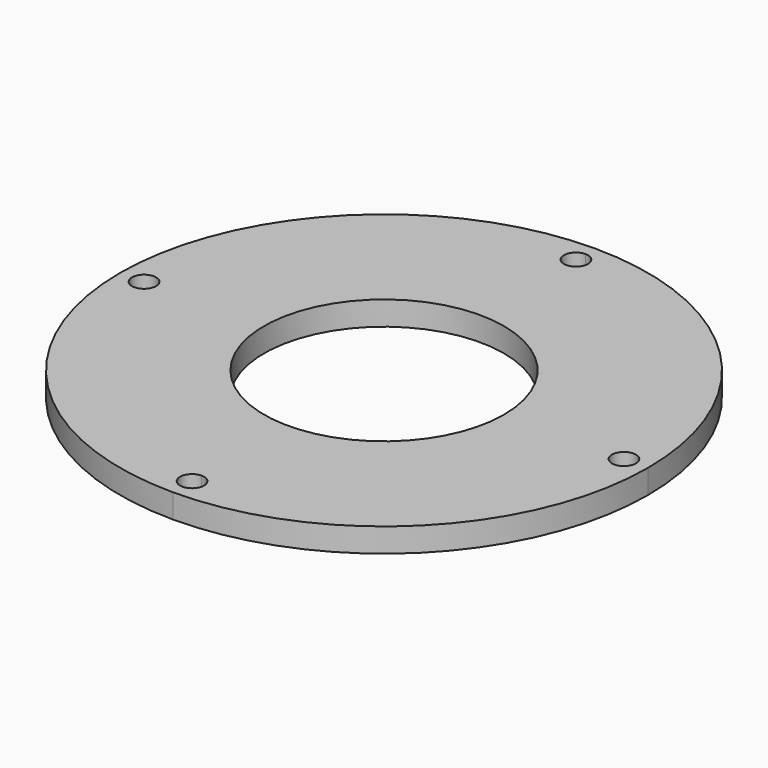
from build123d import *

# Parameters (mm, degrees)
F1_DEPTH = 3.175
F2_R     = 15.875
F3_DEPTH = 25.4


with BuildPart() as f1:
    # F0 (on Top) → F1 (new body)
    with BuildSketch(Plane.XY):
        with BuildLine():
            ThreePointArc((0, -34.925), (24.695704, -24.695704), (34.925, 0))
            ThreePointArc((34.925, 0), (24.695704, 24.695704), (0, 34.925))
            ThreePointArc((0, 34.925), (-24.695704, 24.695704), (-34.925, 0))
            ThreePointArc((-34.925, 0), (-24.695704, -24.695704), (0, -34.925))
        make_face()
        with BuildLine():
            ThreePointArc((1.5875, -31.75), (1.122532, -32.872532), (0, -33.3375))
            ThreePointArc((0, -33.3375), (-1.5875, -31.75), (0, -30.1625))
            ThreePointArc((0, -30.1625), (1.122532, -30.627468), (1.5875, -31.75))
        make_face(mode=Mode.SUBTRACT)
        with BuildLine():
            ThreePointArc((-30.1625, 0), (-31.75, -1.5875), (-33.3375, 0))
            ThreePointArc((-33.3375, 0), (-31.75, 1.5875), (-30.1625, 0))
        make_face(mode=Mode.SUBTRACT)
        with BuildLine():
            ThreePointArc((30.1625, 0), (31.75, 1.5875), (33.3375, 0))
            ThreePointArc((33.3375, 0), (31.75, -1.5875), (30.1625, 0))
        make_face(mode=Mode.SUBTRACT)
        with BuildLine():
            ThreePointArc((0, 30.1625), (-1.5875, 31.75), (0, 33.3375))
            ThreePointArc((0, 33.3375), (1.122532, 32.872532), (1.5875, 31.75))
            ThreePointArc((1.5875, 31.75), (1.122532, 30.627468), (0, 30.1625))
        make_face(mode=Mode.SUBTRACT)
    extrude(amount=F1_DEPTH)

    # F2 (on face) → F3 (cut)
    with BuildSketch(Plane.XY.offset(3.175)):
        Circle(F2_R)
    extrude(amount=-F3_DEPTH, mode=Mode.SUBTRACT)


solid = f1.part
